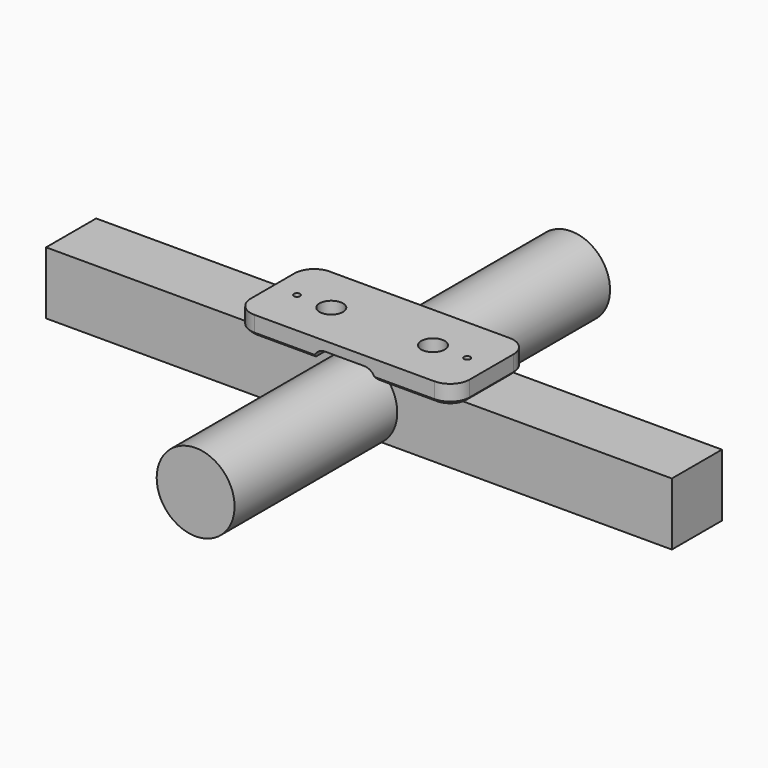
from build123d import *

# Parameters (mm, degrees)
F0_R      = 2.5527
F0_R_2    = 3.175
F1_DEPTH  = 15.24
F3_DEPTH  = 76.201
F4_SIZE   = 2.54
F5_W      = 508
F5_H      = 50.8
F5_R      = 2.5527
F6_DEPTH  = 50.8
F8_R      = 31.623
F9_DEPTH  = 190.5
F10_R     = 9.525
F11_DEPTH = 10.16


with BuildPart() as f1:
    # F0 (on Top) → F1 (new body)
    with BuildSketch(Plane.XY):
        with BuildLine():
            ThreePointArc((0, 15.875), (4.6496798487, 4.6496798487), (15.875, 0))
            Line((15.875, 0), (161.925, 0))
            ThreePointArc((161.925, 0), (173.1503201513, 4.6496798487), (177.8, 15.875))
            Line((177.8, 15.875), (177.8, 60.325))
            ThreePointArc((177.8, 60.325), (173.1503201513, 71.5503201513), (161.925, 76.2))
            Line((161.925, 76.2), (15.875, 76.2))
            ThreePointArc((15.875, 76.2), (4.6496798487, 71.5503201513), (0, 60.325))
            Line((0, 60.325), (0, 15.875))
        make_face()
        with Locations((19.812, 38.1)):
            Circle(F0_R, mode=Mode.SUBTRACT)
        with Locations((47.625, 38.1)):
            Circle(F0_R_2, mode=Mode.SUBTRACT)
        with Locations((130.175, 38.1)):
            Circle(F0_R_2, mode=Mode.SUBTRACT)
        with Locations((157.988, 38.1)):
            Circle(F0_R, mode=Mode.SUBTRACT)
    extrude(amount=F1_DEPTH)

    # F2 (on face) → F3 (cut, through all)
    with BuildSketch(Plane.XZ):
        with BuildLine():
            Line((104.775, 7.62), (73.025, 7.62))
            ThreePointArc((73.025, 7.62), (66.2898079092, 4.8301920908), (63.5, -1.905))
            Line((63.5, -1.905), (63.5, -16.0088390112))
            Line((63.5, -16.0088390112), (114.3, -16.0088390112))
            Line((114.3, -16.0088390112), (114.3, -1.905))
            ThreePointArc((114.3, -1.905), (111.5101920908, 4.8301920908), (104.775, 7.62))
        make_face()
    extrude(amount=-F3_DEPTH, mode=Mode.SUBTRACT)

    # F4
    f4_edges = [f1.edges().sort_by_distance(p)[0] for p in [
        (39.783722, 0, 0),
        (4.64968, 4.64968, 0),
        (0, 38.1, 0),
        (4.64968, 71.55032, 0),
        (39.783722, 76.2, 0),
        (138.016278, 76.2, 0),
        (173.15032, 71.55032, 0),
        (177.8, 38.1, 0),
        (173.15032, 4.64968, 0),
        (138.016278, 0, 0),
    ]]
    chamfer(f4_edges, length=F4_SIZE)

    # F10 (on face) → F11 (cut)
    with BuildSketch(Plane.XY.offset(15.24)):
        with Locations((130.175, 38.1)):
            Circle(F10_R)
        with Locations((47.625, 38.1)):
            Circle(F10_R)
    extrude(amount=-F11_DEPTH, mode=Mode.SUBTRACT)


with BuildPart() as f6:
    # F5 (on face) → F6 (new body)
    with BuildSketch(Plane(origin=(0, 0, 0), x_dir=(1, 0, 0), z_dir=(0, 0, -1))):
        with Locations((90.429624754, -38.1)):
            Rectangle(F5_W, F5_H)
        with Locations((19.812, -38.1)):
            Circle(F5_R, mode=Mode.SUBTRACT)
        with Locations((157.988, -38.1)):
            Circle(F5_R, mode=Mode.SUBTRACT)
    extrude(amount=F6_DEPTH)

    # F8 (on offset) → F9 (join, symmetric)
    with BuildSketch(Plane(origin=(0, 38.1, 0), x_dir=(-1, 0, 0), z_dir=(0, 1, 0))):
        with Locations((-89.919749836, -25.4)):
            Circle(F8_R)
    extrude(amount=F9_DEPTH, both=True)


solid = Compound([f1.part, f6.part])
